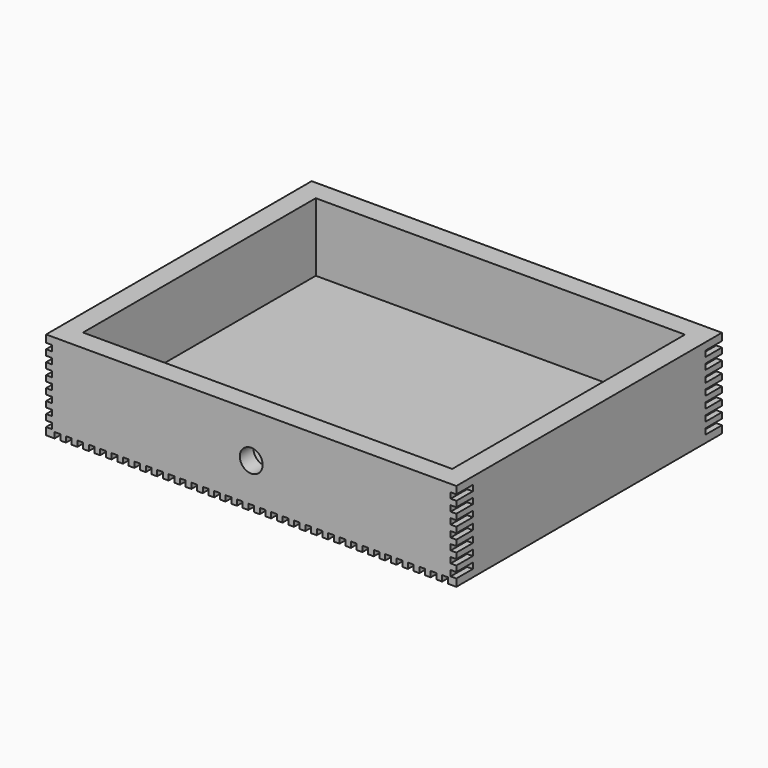
from build123d import *

# Parameters (mm, degrees)
F0_W      = 359.9
F0_H      = 291.225
F1_DEPTH  = 18
F2_W      = 359.9
F2_H      = 18
F3_DEPTH  = 59.9
F4_W      = 18
F4_H      = 255.225
F5_DEPTH  = 59.9
F6_W      = 5
F6_H      = 5
F7_DEPTH  = 18
F8_W      = 5
F8_H      = 5
F9_DEPTH  = 18
F10_R     = 10
F11_DEPTH = 18
F12_W     = 30
F12_H     = 30
F13_DEPTH = 3


with BuildPart() as f1:
    # F0 (on Top) → F1 (new body)
    with BuildSketch(Plane.XY):
        Rectangle(F0_W, F0_H)
    extrude(amount=F1_DEPTH)

    # F2 (on face) → F3 (join)
    with BuildSketch(Plane.XY.offset(18)):
        with Locations((0, -136.6125)):
            Rectangle(F2_W, F2_H)
        with Locations((0, 136.6125)):
            Rectangle(F2_W, F2_H)
    extrude(amount=F3_DEPTH)

    # F4 (on face) → F5 (join)
    with BuildSketch(Plane.XY.offset(18)):
        with Locations((170.95, 0)):
            Rectangle(F4_W, F4_H)
        with Locations((-170.95, 0)):
            Rectangle(F4_W, F4_H)
    extrude(amount=F5_DEPTH)

    # F6 (on face) → F7 (cut)
    with BuildSketch(Plane.XZ.offset(145.6125)):
        with Locations((-177.45, 38.95)):
            Rectangle(F6_W, F6_H)
        with Locations((-177.45, 48.95)):
            Rectangle(F6_W, F6_H)
        with Locations((-177.45, 58.95)):
            Rectangle(F6_W, F6_H)
        with Locations((-177.45, 68.95)):
            Rectangle(F6_W, F6_H)
        with Locations((-177.45, 18.95)):
            Rectangle(F6_W, F6_H)
        with Locations((-177.45, 8.95)):
            Rectangle(F6_W, F6_H)
        with Locations((-177.45, 28.95)):
            Rectangle(F6_W, F6_H)
        with Locations((177.45, 38.95)):
            Rectangle(F6_W, F6_H)
        with Locations((177.45, 28.95)):
            Rectangle(F6_W, F6_H)
        with Locations((177.45, 18.95)):
            Rectangle(F6_W, F6_H)
        with Locations((177.45, 68.95)):
            Rectangle(F6_W, F6_H)
        with Locations((177.45, 58.95)):
            Rectangle(F6_W, F6_H)
        with Locations((177.45, 48.95)):
            Rectangle(F6_W, F6_H)
        with Locations((177.45, 8.95)):
            Rectangle(F6_W, F6_H)
        with Locations((0, 2.5)):
            Rectangle(F6_W, F6_H)
        with Locations((10, 2.5)):
            Rectangle(F6_W, F6_H)
        with Locations((20, 2.5)):
            Rectangle(F6_W, F6_H)
        with Locations((30, 2.5)):
            Rectangle(F6_W, F6_H)
        with Locations((40, 2.5)):
            Rectangle(F6_W, F6_H)
        with Locations((50, 2.5)):
            Rectangle(F6_W, F6_H)
        with Locations((60, 2.5)):
            Rectangle(F6_W, F6_H)
        with Locations((70, 2.5)):
            Rectangle(F6_W, F6_H)
        with Locations((80, 2.5)):
            Rectangle(F6_W, F6_H)
        with Locations((90, 2.5)):
            Rectangle(F6_W, F6_H)
        with Locations((100, 2.5)):
            Rectangle(F6_W, F6_H)
        with Locations((110, 2.5)):
            Rectangle(F6_W, F6_H)
        with Locations((120, 2.5)):
            Rectangle(F6_W, F6_H)
        with Locations((130, 2.5)):
            Rectangle(F6_W, F6_H)
        with Locations((140, 2.5)):
            Rectangle(F6_W, F6_H)
        with Locations((150, 2.5)):
            Rectangle(F6_W, F6_H)
        with Locations((160, 2.5)):
            Rectangle(F6_W, F6_H)
        with Locations((170, 2.5)):
            Rectangle(F6_W, F6_H)
        with Locations((-160, 2.5)):
            Rectangle(F6_W, F6_H)
        with Locations((-90, 2.5)):
            Rectangle(F6_W, F6_H)
        with Locations((-130, 2.5)):
            Rectangle(F6_W, F6_H)
        with Locations((-150, 2.5)):
            Rectangle(F6_W, F6_H)
        with Locations((-80, 2.5)):
            Rectangle(F6_W, F6_H)
        with Locations((-140, 2.5)):
            Rectangle(F6_W, F6_H)
        with Locations((-70, 2.5)):
            Rectangle(F6_W, F6_H)
        with Locations((-170, 2.5)):
            Rectangle(F6_W, F6_H)
        with Locations((-40, 2.5)):
            Rectangle(F6_W, F6_H)
        with Locations((-120, 2.5)):
            Rectangle(F6_W, F6_H)
        with Locations((-60, 2.5)):
            Rectangle(F6_W, F6_H)
        with Locations((-10, 2.5)):
            Rectangle(F6_W, F6_H)
        with Locations((-100, 2.5)):
            Rectangle(F6_W, F6_H)
        with Locations((-110, 2.5)):
            Rectangle(F6_W, F6_H)
        with Locations((-50, 2.5)):
            Rectangle(F6_W, F6_H)
        with Locations((-20, 2.5)):
            Rectangle(F6_W, F6_H)
        with Locations((-30, 2.5)):
            Rectangle(F6_W, F6_H)
    extrude(amount=-F7_DEPTH, mode=Mode.SUBTRACT)

    # F8 (on face) → F9 (cut)
    with BuildSketch(Plane(origin=(0, 145.6125, 0), x_dir=(-1, 0, 0), z_dir=(0, 1, 0))):
        with Locations((0, 2.5)):
            Rectangle(F8_W, F8_H)
        with Locations((10, 2.5)):
            Rectangle(F8_W, F8_H)
        with Locations((20, 2.5)):
            Rectangle(F8_W, F8_H)
        with Locations((30, 2.5)):
            Rectangle(F8_W, F8_H)
        with Locations((40, 2.5)):
            Rectangle(F8_W, F8_H)
        with Locations((50, 2.5)):
            Rectangle(F8_W, F8_H)
        with Locations((60, 2.5)):
            Rectangle(F8_W, F8_H)
        with Locations((70, 2.5)):
            Rectangle(F8_W, F8_H)
        with Locations((80, 2.5)):
            Rectangle(F8_W, F8_H)
        with Locations((90, 2.5)):
            Rectangle(F8_W, F8_H)
        with Locations((100, 2.5)):
            Rectangle(F8_W, F8_H)
        with Locations((110, 2.5)):
            Rectangle(F8_W, F8_H)
        with Locations((120, 2.5)):
            Rectangle(F8_W, F8_H)
        with Locations((130, 2.5)):
            Rectangle(F8_W, F8_H)
        with Locations((140, 2.5)):
            Rectangle(F8_W, F8_H)
        with Locations((150, 2.5)):
            Rectangle(F8_W, F8_H)
        with Locations((160, 2.5)):
            Rectangle(F8_W, F8_H)
        with Locations((170, 2.5)):
            Rectangle(F8_W, F8_H)
        with Locations((-150, 2.5)):
            Rectangle(F8_W, F8_H)
        with Locations((-80, 2.5)):
            Rectangle(F8_W, F8_H)
        with Locations((-10, 2.5)):
            Rectangle(F8_W, F8_H)
        with Locations((-130, 2.5)):
            Rectangle(F8_W, F8_H)
        with Locations((-30, 2.5)):
            Rectangle(F8_W, F8_H)
        with Locations((-40, 2.5)):
            Rectangle(F8_W, F8_H)
        with Locations((-110, 2.5)):
            Rectangle(F8_W, F8_H)
        with Locations((-170, 2.5)):
            Rectangle(F8_W, F8_H)
        with Locations((-100, 2.5)):
            Rectangle(F8_W, F8_H)
        with Locations((-50, 2.5)):
            Rectangle(F8_W, F8_H)
        with Locations((-70, 2.5)):
            Rectangle(F8_W, F8_H)
        with Locations((-20, 2.5)):
            Rectangle(F8_W, F8_H)
        with Locations((-160, 2.5)):
            Rectangle(F8_W, F8_H)
        with Locations((-60, 2.5)):
            Rectangle(F8_W, F8_H)
        with Locations((-90, 2.5)):
            Rectangle(F8_W, F8_H)
        with Locations((-140, 2.5)):
            Rectangle(F8_W, F8_H)
        with Locations((-120, 2.5)):
            Rectangle(F8_W, F8_H)
        with Locations((-177.45, 38.95)):
            Rectangle(F8_W, F8_H)
        with Locations((-177.45, 48.95)):
            Rectangle(F8_W, F8_H)
        with Locations((-177.45, 58.95)):
            Rectangle(F8_W, F8_H)
        with Locations((-177.45, 28.95)):
            Rectangle(F8_W, F8_H)
        with Locations((-177.45, 18.95)):
            Rectangle(F8_W, F8_H)
        with Locations((-177.45, 68.95)):
            Rectangle(F8_W, F8_H)
        with Locations((-177.45, 8.95)):
            Rectangle(F8_W, F8_H)
        with Locations((177.45, 18.95)):
            Rectangle(F8_W, F8_H)
        with Locations((177.45, 38.95)):
            Rectangle(F8_W, F8_H)
        with Locations((177.45, 58.95)):
            Rectangle(F8_W, F8_H)
        with Locations((177.45, 48.95)):
            Rectangle(F8_W, F8_H)
        with Locations((177.45, 28.95)):
            Rectangle(F8_W, F8_H)
        with Locations((177.45, 8.95)):
            Rectangle(F8_W, F8_H)
        with Locations((177.45, 68.95)):
            Rectangle(F8_W, F8_H)
    extrude(amount=-F9_DEPTH, mode=Mode.SUBTRACT)

    # F10 (on face) → F11 (cut)
    with BuildSketch(Plane.XZ.offset(145.6125)):
        with Locations((0, 38.950074)):
            Circle(F10_R)
    extrude(amount=-F11_DEPTH, mode=Mode.SUBTRACT)

    # F12 (on face) → F13 (cut)
    with BuildSketch(Plane(origin=(0, -127.6125, 0), x_dir=(-1, 0, 0), z_dir=(0, 1, 0))):
        with Locations((0, 38.950074)):
            Rectangle(F12_W, F12_H)
    extrude(amount=-F13_DEPTH, mode=Mode.SUBTRACT)


solid = f1.part
